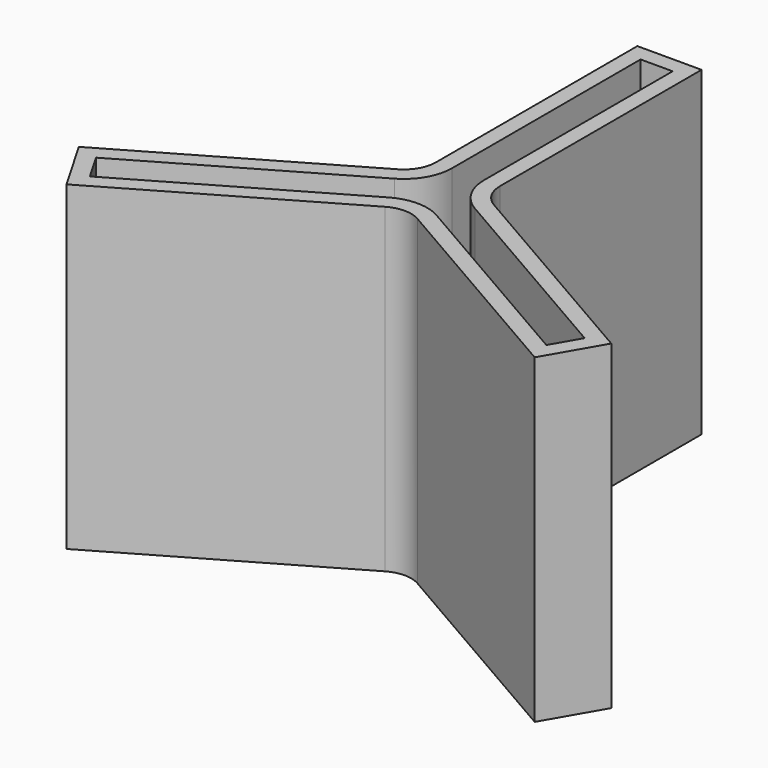
from build123d import *

# Parameters (mm, degrees)
F1_DEPTH = 20
F3_DEPTH = 1


with BuildPart() as f1:
    # F0 (on Top) → F1 (new body)
    with BuildSketch(Plane.XY):
        with BuildLine():
            Line((-16.588457, -7.267949), (-14.588457, -10.732051))
            Line((-14.588457, -10.732051), (-1, -2.886751))
            ThreePointArc((-1, -2.886751), (0, -2.618802), (1, -2.886751))
            Line((1, -2.886751), (14.588457, -10.732051))
            Line((14.588457, -10.732051), (16.588457, -7.267949))
            Line((16.588457, -7.267949), (3, 0.57735))
            ThreePointArc((3, 0.57735), (2.267949, 1.309401), (2, 2.309401))
            Line((2, 2.309401), (2, 18))
            Line((2, 18), (-2, 18))
            Line((-2, 18), (-2, 2.309401))
            ThreePointArc((-2, 2.309401), (-2.267949, 1.309401), (-3, 0.57735))
            Line((-3, 0.57735), (-16.588457, -7.267949))
        make_face()
        with BuildLine():
            Line((-1, 2.309401), (-1, 17))
            Line((-1, 17), (1, 17))
            Line((1, 17), (1, 2.309401))
            ThreePointArc((1, 2.309401), (1.401924, 0.809401), (2.5, -0.288675))
            Line((2.5, -0.288675), (15.222432, -7.633975))
            Line((15.222432, -7.633975), (14.222432, -9.366025))
            Line((14.222432, -9.366025), (1.5, -2.020726))
            ThreePointArc((1.5, -2.020726), (0, -1.618802), (-1.5, -2.020726))
            Line((-1.5, -2.020726), (-14.222432, -9.366025))
            Line((-14.222432, -9.366025), (-15.222432, -7.633975))
            Line((-15.222432, -7.633975), (-2.5, -0.288675))
            ThreePointArc((-2.5, -0.288675), (-1.401924, 0.809401), (-1, 2.309401))
        make_face(mode=Mode.SUBTRACT)
    extrude(amount=F1_DEPTH)

    # F2 (on face) → F3 (join)
    with BuildSketch(Plane(origin=(0, 0, 0), x_dir=(1, 0, 0), z_dir=(0, 0, -1))):
        with BuildLine():
            Line((15.222432, 7.633975), (14.222432, 9.366025))
            Line((14.222432, 9.366025), (1.5, 2.020726))
            ThreePointArc((1.5, 2.020726), (0, 1.618802), (-1.5, 2.020726))
            Line((-1.5, 2.020726), (-14.222432, 9.366025))
            Line((-14.222432, 9.366025), (-15.222432, 7.633975))
            Line((-15.222432, 7.633975), (-2.5, 0.288675))
            ThreePointArc((-2.5, 0.288675), (-1.401924, -0.809401), (-1, -2.309401))
            Line((-1, -2.309401), (-1, -17))
            Line((-1, -17), (1, -17))
            Line((1, -17), (1, -2.309401))
            ThreePointArc((1, -2.309401), (1.401924, -0.809401), (2.5, 0.288675))
            Line((2.5, 0.288675), (15.222432, 7.633975))
        make_face()
    extrude(amount=-F3_DEPTH)


solid = f1.part
